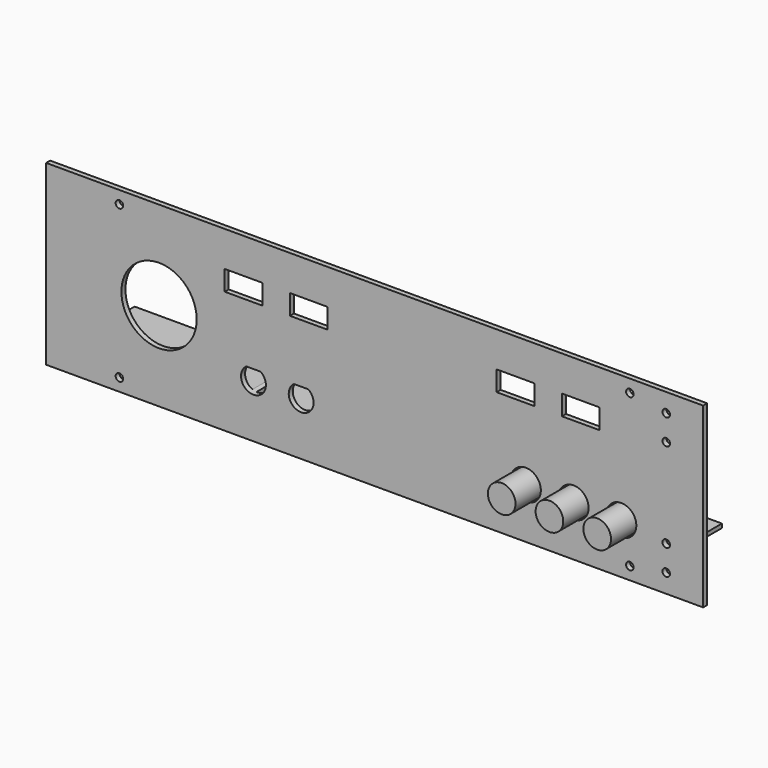
from build123d import *

# Parameters (mm, degrees)
F0_W      = 261.75
F0_H      = 70.78
F0_R      = 1.5
F1_DEPTH  = 2
F2_W      = 233.96
F2_H      = 1.6
F3_DEPTH  = 25
F4_W      = 25
F4_H      = 7.4
F5_DEPTH  = 25
F6_R      = 6
F7_DEPTH  = 25
F8_R      = 5.5
F9_DEPTH  = 14
F10_R     = 1.5
F11_DEPTH = 25
F12_R     = 15
F13_DEPTH = 25
F14_W     = 15
F14_H     = 8
F15_DEPTH = 25
F17_DEPTH = 25


with BuildPart() as f1:
    # F0 (on Front) → F1 (new body)
    with BuildSketch(Plane.XZ):
        with Locations((130.875, 35.39)):
            Rectangle(F0_W, F0_H)
        with Locations((29.2, 5.03)):
            Circle(F0_R, mode=Mode.SUBTRACT)
        with Locations((232.55, 5.03)):
            Circle(F0_R, mode=Mode.SUBTRACT)
        with Locations((29.2, 65.75)):
            Circle(F0_R, mode=Mode.SUBTRACT)
        with Locations((232.55, 65.75)):
            Circle(F0_R, mode=Mode.SUBTRACT)
    extrude(amount=-F1_DEPTH)

    # F2 (on face) → F3 (join)
    with BuildSketch(Plane(origin=(0, 2, 0), x_dir=(-1, 0, 0), z_dir=(0, 1, 0))):
        with Locations((-130.65, 13.06)):
            Rectangle(F2_W, F2_H)
    extrude(amount=F3_DEPTH)

    # F4 (on face) → F5 (join)
    with BuildSketch(Plane(origin=(0, 2, 0), x_dir=(-1, 0, 0), z_dir=(0, 1, 0))):
        with Locations((-69.71, 13.06)):
            Rectangle(F4_W, F4_H)
    extrude(amount=F5_DEPTH)

    # F6 (on face) → F7 (cut)
    with BuildSketch(Plane(origin=(0, 2, 0), x_dir=(-1, 0, 0), z_dir=(0, 1, 0))):
        with Locations((-229.14, 20.04)):
            Circle(F6_R)
        with Locations((-210.12, 20.04)):
            Circle(F6_R)
        with Locations((-191.1, 20.04)):
            Circle(F6_R)
    extrude(amount=-F7_DEPTH, mode=Mode.SUBTRACT)

    # F10 (on face) → F11 (cut)
    with BuildSketch(Plane.XZ):
        with Locations((247.05, 7.45)):
            Circle(F10_R)
        with Locations((247.05, 17.61)):
            Circle(F10_R)
        with Locations((247.05, 53.17)):
            Circle(F10_R)
        with Locations((247.05, 63.33)):
            Circle(F10_R)
    extrude(amount=-F11_DEPTH, mode=Mode.SUBTRACT)

    # F12 (on face) → F13 (cut)
    with BuildSketch(Plane.XZ):
        with Locations((45, 35.39)):
            Circle(F12_R)
    extrude(amount=-F13_DEPTH, mode=Mode.SUBTRACT)

    # F14 (on face) → F15 (cut)
    with BuildSketch(Plane.XZ):
        with Locations((78.662411, 52.740127)):
            Rectangle(F14_W, F14_H)
        with Locations((104.662411, 52.740127)):
            Rectangle(F14_W, F14_H)
        with Locations((187.005974, 52.740127)):
            Rectangle(F14_W, F14_H)
        with Locations((213.005974, 52.740127)):
            Rectangle(F14_W, F14_H)
    extrude(amount=-F15_DEPTH, mode=Mode.SUBTRACT)

    # F16 (on face) → F17 (cut)
    with BuildSketch(Plane.XZ):
        with BuildLine():
            ThreePointArc((79.765705, 25.352355), (80.329809, 16.909723), (87.561755, 21.302355))
            ThreePointArc((87.561755, 21.302355), (87.004387, 23.584301), (85.457804, 25.352355))
            Line((85.457804, 25.352355), (79.765705, 25.352355))
        make_face()
        with BuildLine():
            Line((104.457804, 25.352355), (98.765705, 25.352355))
            ThreePointArc((98.765705, 25.352355), (99.329809, 16.909723), (106.561755, 21.302355))
            ThreePointArc((106.561755, 21.302355), (106.004387, 23.584301), (104.457804, 25.352355))
        make_face()
    extrude(amount=-F17_DEPTH, mode=Mode.SUBTRACT)


with BuildPart() as f9:
    # F8 (on face) → F9 (new body)
    with BuildSketch(Plane(origin=(0, 2, 0), x_dir=(-1, 0, 0), z_dir=(0, 1, 0))):
        with Locations((-229.14, 20.04)):
            Circle(F8_R)
        with Locations((-210.12, 20.04)):
            Circle(F8_R)
        with Locations((-191.1, 20.04)):
            Circle(F8_R)
    extrude(amount=-F9_DEPTH)


solid = Compound([f1.part, f9.part])
